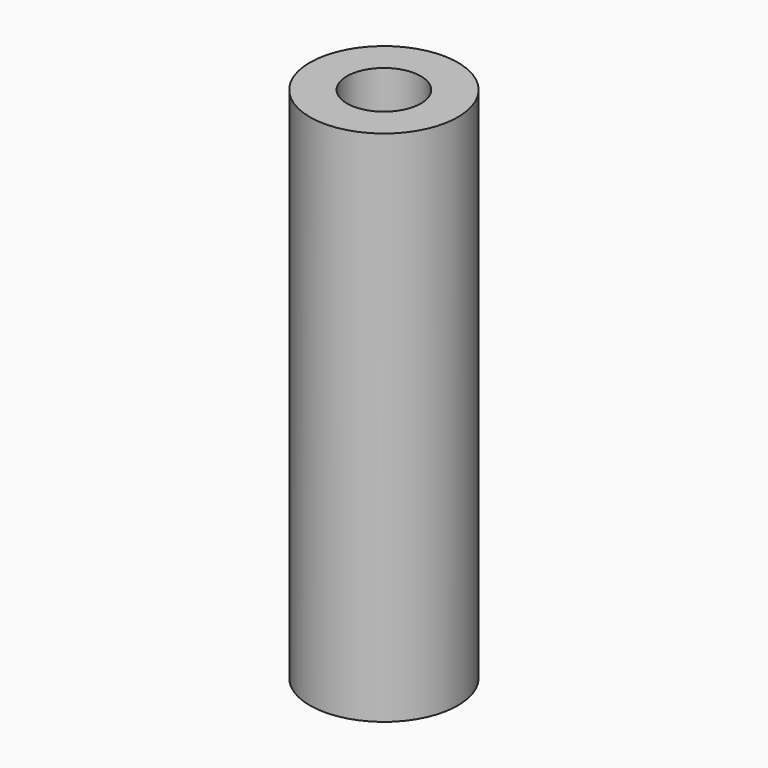
from build123d import *

# Parameters (mm, degrees)
F0_W     = 3.175
F0_H     = 22.225
F2_R     = 1.5875
F3_DEPTH = 22.225


with BuildPart() as f1:
    # F0 (on Front) → F1 (revolve)
    with BuildSketch(Plane.XZ):
        with Locations((-1.5875, 11.1125)):
            Rectangle(F0_W, F0_H)
    revolve(axis=Axis((0, 0, 11.1125), (0, 0, 1)))

    # F2 (on face) → F3 (cut, through all)
    with BuildSketch(Plane.XY.offset(22.225)):
        Circle(F2_R)
    extrude(amount=-F3_DEPTH, mode=Mode.SUBTRACT)


solid = f1.part
